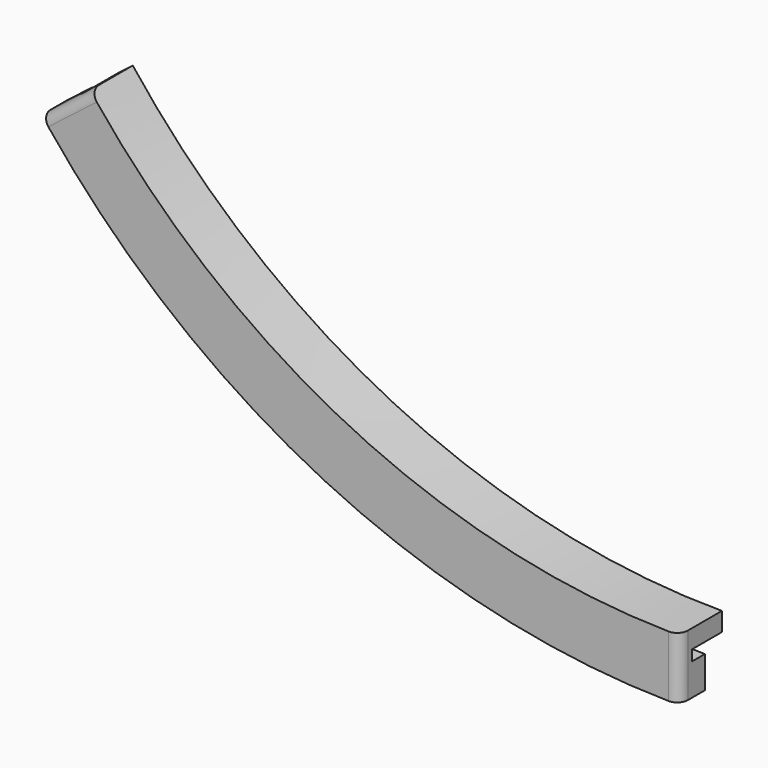
from build123d import *

# Parameters (mm, degrees)
F3_R = 10
F4_R = 10


with BuildPart() as f2:
    # F2: sweep along a path in F0
    with BuildLine(Plane.XZ) as f2_path:
        ThreePointArc((-552.9959908712, -429.1799553571), (-307.875, -628.6596729352), (0, -700))
    # F1 (on Right) → F2 (sweep)
    with BuildSketch(Plane.YZ):
        Polygon((0, -717.5), (0, -700), (-50, -700), (-50, -757.5), (-20, -757.5), (-20, -727.5), (-35, -727.5), (-35, -717.5), align=None)
    sweep(path=f2_path.line)

    # F3
    f3_edges = [f2.edges().sort_by_distance(p)[0] for p in [
        (-575.708326, -50, -446.806989),
    ]]
    fillet(f3_edges, radius=F3_R)

    # F4
    f4_edges = [f2.edges().sort_by_distance(p)[0] for p in [
        (0, -50, -728.75),
    ]]
    fillet(f4_edges, radius=F4_R)


solid = f2.part
